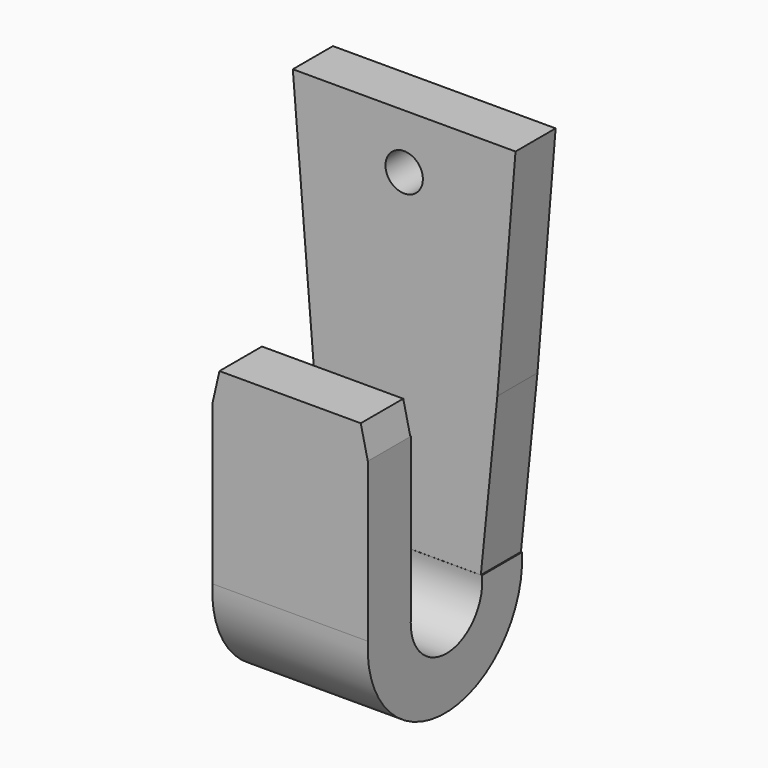
from build123d import *

# Parameters (mm, degrees)
F0_R     = 4.7340858412
F1_DEPTH = 12.7
F3_DEPTH = 19.685
F5_DEPTH = 13.462


with BuildPart() as f1:
    # F0 (on Front) → F1 (new body)
    with BuildSketch(Plane.XZ):
        Polygon((28.2062906772, 56.0438744724), (-28.2062906772, 56.0438744724), (-23.5974192619, 0), (-20.2079608097, -41.2158133545), (19.4203909487, -41.2481687963), (23.5974192619, 0), align=None)
        with Locations((0, 42.2346815467)):
            Circle(F0_R, mode=Mode.SUBTRACT)
    extrude(amount=F1_DEPTH)


with BuildPart() as f3:
    # F2 (on Right) → F3 (new body, symmetric)
    with BuildSketch(Plane.YZ):
        with BuildLine():
            Line((-9.9408207461, -41.2572398782), (-12.6955840965, -41.2572398782))
            ThreePointArc((-12.6955840965, -41.2572398782), (-23.9285376886, -54.1052616117), (-35.1244116515, -41.2249155343))
            Line((-35.1244116515, -41.2249155343), (-35.1244116515, -1.0932636214))
            Line((-35.1244116515, -1.0932636214), (-36.4736020565, -1.0932636214))
            Line((-36.4736020565, -1.0932636214), (-48.8187869123, -1.0932636214))
            Line((-48.8187869123, -1.0932636214), (-48.8187869123, -41.2482433021))
            ThreePointArc((-48.8187869123, -41.2482433021), (-24.4093934561, -67.2427849201), (0, -41.2482433021))
            Line((0, -41.2482433021), (-9.9408207461, -41.2572398782))
        make_face()
    extrude(amount=F3_DEPTH, both=True)

    # F4 (on face) → F5 (join)
    with BuildSketch(Plane.XZ.offset(48.8187869123)):
        Polygon((-17.896451056, 6.7789228633), (-19.685, -1.0932636214), (19.685, -1.0932636214), (17.896451056, 6.7789228633), (0, 6.7789228633), align=None)
    extrude(amount=-F5_DEPTH)


solid = Compound([f1.part, f3.part])
